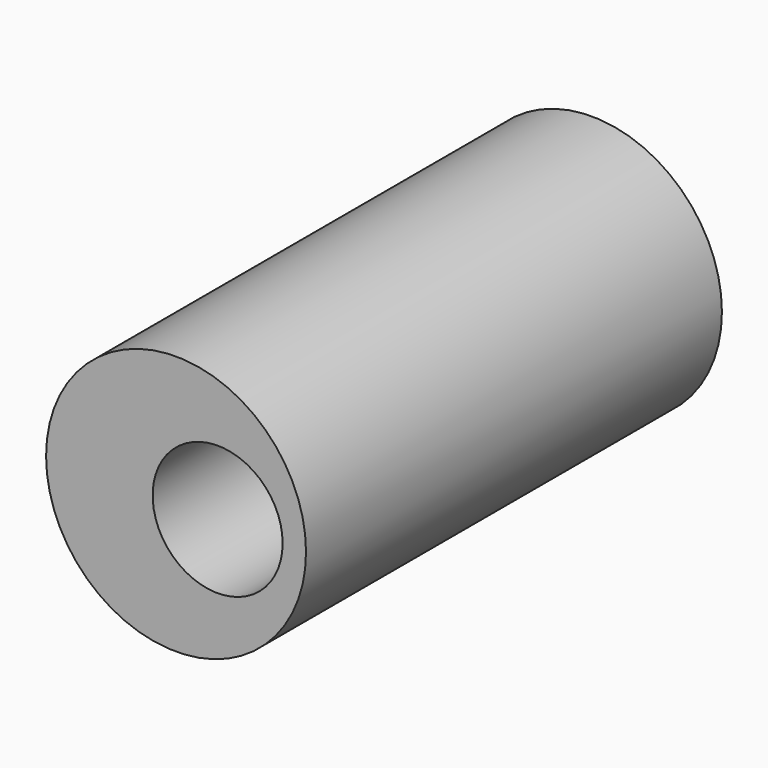
from build123d import *

# Parameters (mm, degrees)
SKETCH_R   = 6.35
SKETCH_R_2 = 3.175
PAD_DEPTH  = 25.4


with BuildPart() as part:
    # Sketch → Pad (new body)
    with BuildSketch(Plane.XZ):
        Circle(SKETCH_R)
        with Locations((2.032, 0)):
            Circle(SKETCH_R_2, mode=Mode.SUBTRACT)
    extrude(amount=PAD_DEPTH)


solid = part.part
